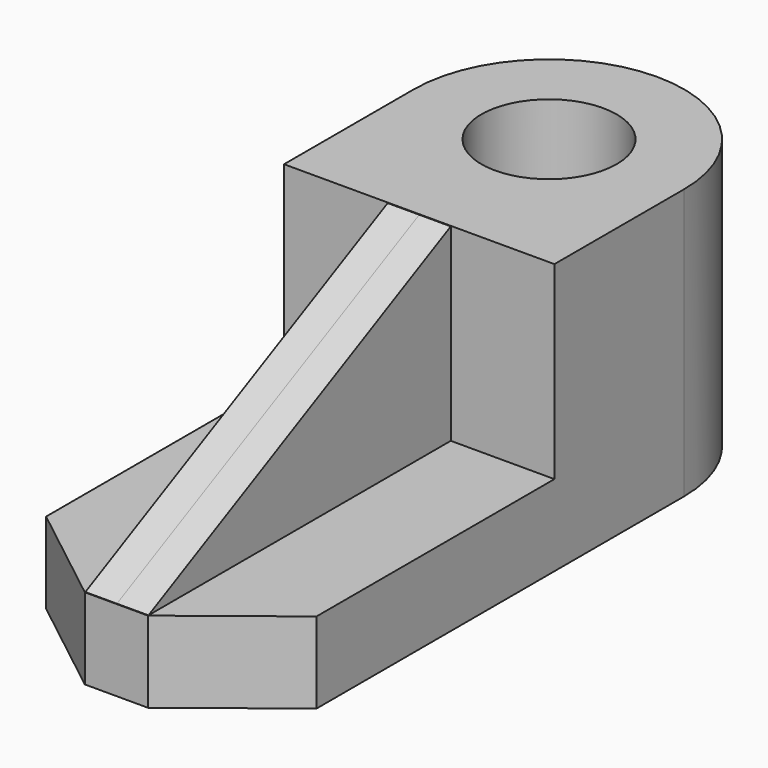
from build123d import *

# Parameters (mm, degrees)
F0_R     = 190.5
F2_DEPTH = 762
F0_W     = 177.8
F0_H     = 1066.8
F3_DEPTH = 228.6
F4_DEPTH = 88.9
F5_DEPTH = 88.9


with BuildPart() as f2:
    # F0 (on Top) → F2 (new body)
    with BuildSketch(Plane.XY):
        with BuildLine():
            Line((88.9, -131.90195), (381, -131.90195))
            Line((381, -131.90195), (381, 325.29805))
            ThreePointArc((381, 325.29805), (0, 706.29805), (-381, 325.29805))
            Line((-381, 325.29805), (-381, -131.90195))
            Line((-381, -131.90195), (-88.9, -131.90195))
            Line((-88.9, -131.90195), (88.9, -131.90195))
        make_face()
        with Locations((0, 325.29805)):
            Circle(F0_R, mode=Mode.SUBTRACT)
    extrude(amount=F2_DEPTH)

    # F0 (on Top) → F3 (join)
    with BuildSketch(Plane.XY):
        Polygon((381, -970.10195), (381, -131.90195), (88.9, -131.90195), (88.9, -1198.70195), align=None)
        with BuildLine():
            Line((88.9, -131.90195), (381, -131.90195))
            Line((381, -131.90195), (381, 325.29805))
            ThreePointArc((381, 325.29805), (0, 706.29805), (-381, 325.29805))
            Line((-381, 325.29805), (-381, -131.90195))
            Line((-381, -131.90195), (-88.9, -131.90195))
            Line((-88.9, -131.90195), (88.9, -131.90195))
        make_face()
        with Locations((0, 325.29805)):
            Circle(F0_R, mode=Mode.SUBTRACT)
        with Locations((0, -665.30195)):
            Rectangle(F0_W, F0_H)
        Polygon((-88.9, -1198.70195), (-88.9, -131.90195), (-381, -131.90195), (-381, -970.10195), align=None)
    extrude(amount=F3_DEPTH)

    # F1 (on Right) → F4 (join)
    with BuildSketch(Plane.YZ):
        Polygon((-129.027212, 762), (-1196.931251, 228.6), (-977.461457, 228.6), (-129.027212, 228.6), align=None)
    extrude(amount=F4_DEPTH)

    # F4_face (on face) → F5 (join)
    with BuildSketch(Plane(origin=(0, -486.911717, 405.921372), x_dir=(0, 1, 0), z_dir=(-1, 0, 0))):
        Polygon((-710.019534, 177.321372), (355.009767, -354.642745), (355.009767, 177.321372), align=None)
    extrude(amount=F5_DEPTH)


solid = f2.part
